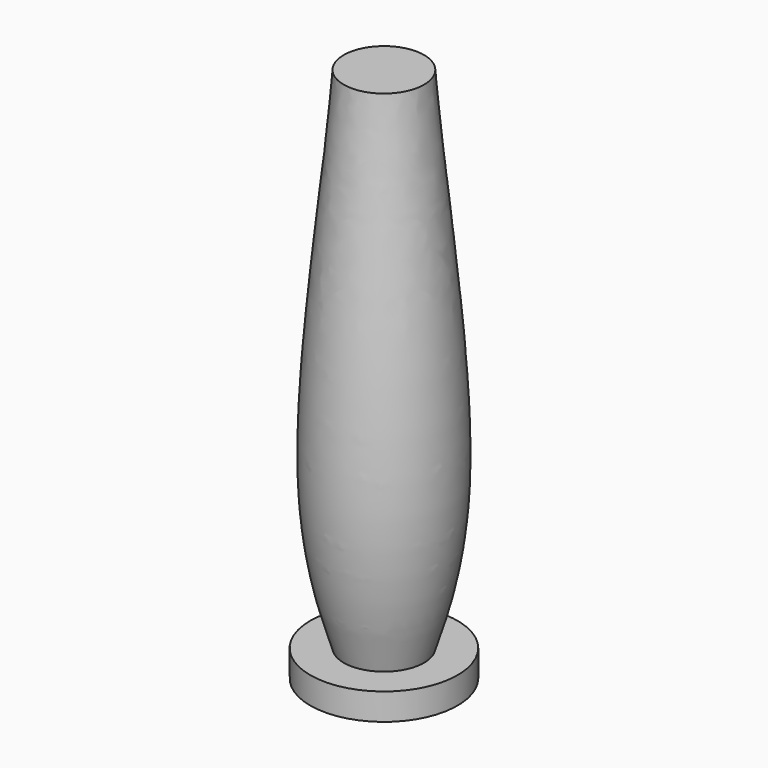
from build123d import *


with BuildPart() as f2:
    # F0 (on Front) → F2 (revolve)
    with BuildSketch(Plane.XZ):
        with BuildLine():
            Line((-110, -380.2955595105), (0, -380.2955595105))
            Line((0, -380.2955595105), (0, 419.7044404895))
            Line((0, 419.7044404895), (-60, 419.7044404895))
            add(Edge.make_bspline(
                [(-60, -340.2955595105), (-74.1022676229, -296.3683605194), (-129.6867173299, -119.4504193558), (-71.4452266693, 263.2666528225), (-60, 419.7044404895)],
                knots=[0, 0, 0, 0, 0.3837137834, 1, 1, 1, 1], degree=3))
            Line((-60, -340.2955595105), (-110, -340.2955595105))
            Line((-110, -340.2955595105), (-110, -380.2955595105))
        make_face()
    revolve(axis=Axis((0, 0, 58.5098564625), (0, 0, 1)))


solid = f2.part
